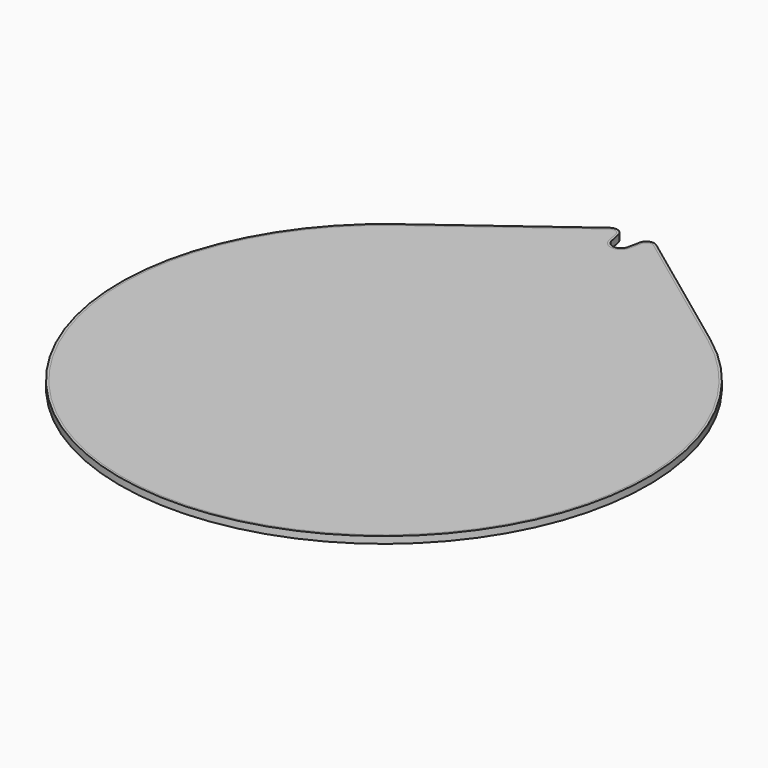
from build123d import *

# Parameters (mm, degrees)
PAD_DEPTH    = 6
PAD001_DEPTH = 6


with BuildPart() as obj1:
    # Sketch → Pad (new body)
    with BuildSketch(Plane.XY):
        with BuildLine():
            ThreePointArc((-138.163471, -74.127107), (0, -492.5), (138.163471, -74.127107))
            Line((138.163471, -74.127107), (20.468725, 13.12332))
            ThreePointArc((20.468725, 13.12332), (13.827265, 14.048708), (9.454935, 8.964609))
            Line((7.206876, -1.542024), (9.454935, 8.964609))
            ThreePointArc((-7.206876, -1.542024), (0, -7.37), (7.206876, -1.542024))
            Line((-7.206876, -1.542024), (-9.454935, 8.964609))
            ThreePointArc((-9.454935, 8.964609), (-13.827265, 14.048708), (-20.468725, 13.12332))
            Line((-138.163471, -74.127107), (-20.468725, 13.12332))
        make_face()
    extrude(amount=PAD_DEPTH)


with BuildPart() as body001:
    # Sketch001 → Pad001 (new body)
    with BuildSketch(Plane.XY):
        with BuildLine():
            ThreePointArc((-138.163471, -74.127107), (0, -492.5), (138.163471, -74.127107))
            Line((138.163471, -74.127107), (20.468725, 13.12332))
            ThreePointArc((20.468725, 13.12332), (13.827265, 14.048708), (9.454935, 8.964609))
            Line((7.206876, -1.542024), (9.454935, 8.964609))
            ThreePointArc((-7.206876, -1.542024), (0, -7.37), (7.206876, -1.542024))
            Line((-7.206876, -1.542024), (-9.454935, 8.964609))
            ThreePointArc((-9.454935, 8.964609), (-13.827265, 14.048708), (-20.468725, 13.12332))
            Line((-138.163471, -74.127107), (-20.468725, 13.12332))
        make_face()
        with BuildLine():
            ThreePointArc((-136.972406, -75.733769), (0, -490.5), (136.972406, -75.733769))
            Line((136.972406, -75.733769), (19.277661, 11.516657))
            ThreePointArc((19.277661, 11.516657), (14.533761, 12.177649), (11.410668, 8.546149))
            Line((9.162609, -1.960484), (11.410668, 8.546149))
            ThreePointArc((-9.162609, -1.960484), (0, -9.37), (9.162609, -1.960484))
            Line((-9.162609, -1.960484), (-11.410668, 8.546149))
            ThreePointArc((-11.410668, 8.546149), (-14.533761, 12.177649), (-19.277661, 11.516657))
            Line((-136.972406, -75.733769), (-19.277661, 11.516657))
        make_face(mode=Mode.SUBTRACT)
    extrude(amount=PAD001_DEPTH)


solid = Compound([obj1.part, body001.part])
